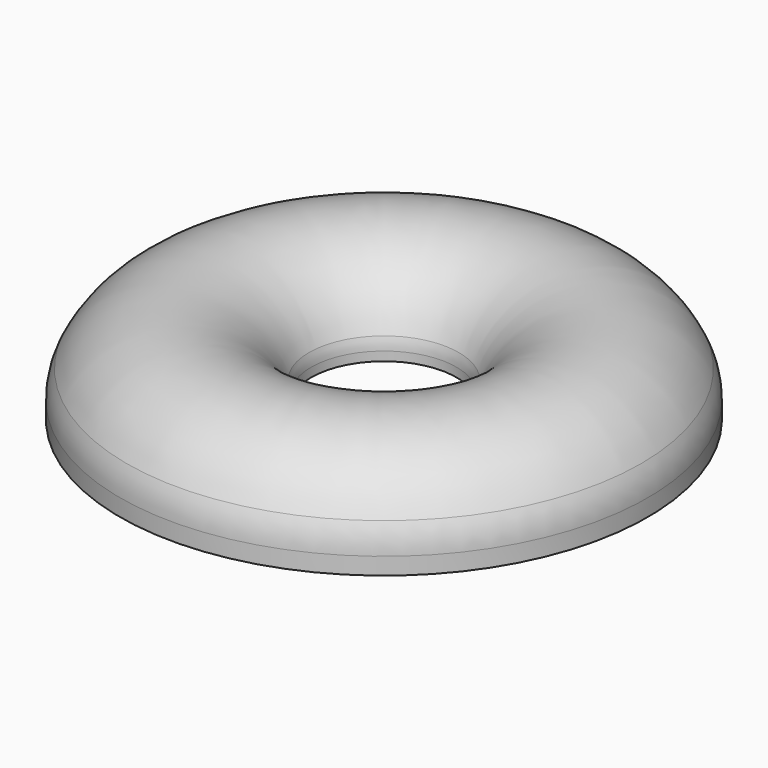
from build123d import *

# Parameters (mm, degrees)
F2_R   = 5
F2_R_2 = 2


with BuildPart() as f1:
    # F0 (on Front) → F1 (revolve)
    with BuildSketch(Plane.XZ):
        with BuildLine():
            ThreePointArc((-92.8524549659, 15.3290077155), (-60.59962846, 33.9505314835), (-30.6264358238, 11.8459236323))
            ThreePointArc((-30.6264358238, 11.8459236323), (-30.1578548638, 10.1320014752), (-30, 8.3622051256))
            Line((-30, 8.3622051256), (-30, 5))
            Line((-30, 5), (-27.0000010729, 5))
            Line((-27.0000010729, 5), (-27.0000010729, 8.3622051256))
            ThreePointArc((-27.0000010729, 8.3622051256), (-27.2052123789, 10.6629401901), (-27.8143675765, 12.8910388105))
            ThreePointArc((-27.8143675765, 12.8910388105), (-60.4319668067, 36.9458416732), (-95.5303222531, 16.6814205056))
            ThreePointArc((-95.5303222531, 16.6814205056), (-97.3740624434, 11.6422043941), (-97.9999989271, 6.3129192238))
            Line((-97.9999989271, 6.3129192238), (-97.9999989271, 0))
            Line((-97.9999989271, 0), (-95, 0))
            Line((-95, 0), (-95, 6.3129192238))
            ThreePointArc((-95, 6.3129192238), (-94.4557073801, 10.9470804576), (-92.8524549659, 15.3290077155))
        make_face()
    revolve(axis=Axis((0, 0, 34.4163365662), (0, 0, 1)))

    # F2 (on face) → F3 (join, up to the next surface of F1)
    with BuildSketch(Plane(origin=(0, 0, 0), x_dir=(1, 0, 0), z_dir=(0, 0, -1))):
        with Locations((-50, 0)):
            Circle(F2_R)
        with Locations((-50, 0)):
            Circle(F2_R_2, mode=Mode.SUBTRACT)
        with Locations((0, -50)):
            Circle(F2_R)
        with Locations((0, -50)):
            Circle(F2_R_2, mode=Mode.SUBTRACT)
        with Locations((50, 0)):
            Circle(F2_R)
        with Locations((50, 0)):
            Circle(F2_R_2, mode=Mode.SUBTRACT)
        with Locations((0, 50)):
            Circle(F2_R)
        with Locations((0, 50)):
            Circle(F2_R_2, mode=Mode.SUBTRACT)
    extrude(until=Until.NEXT, dir=(0, 0, 1))


solid = f1.part
